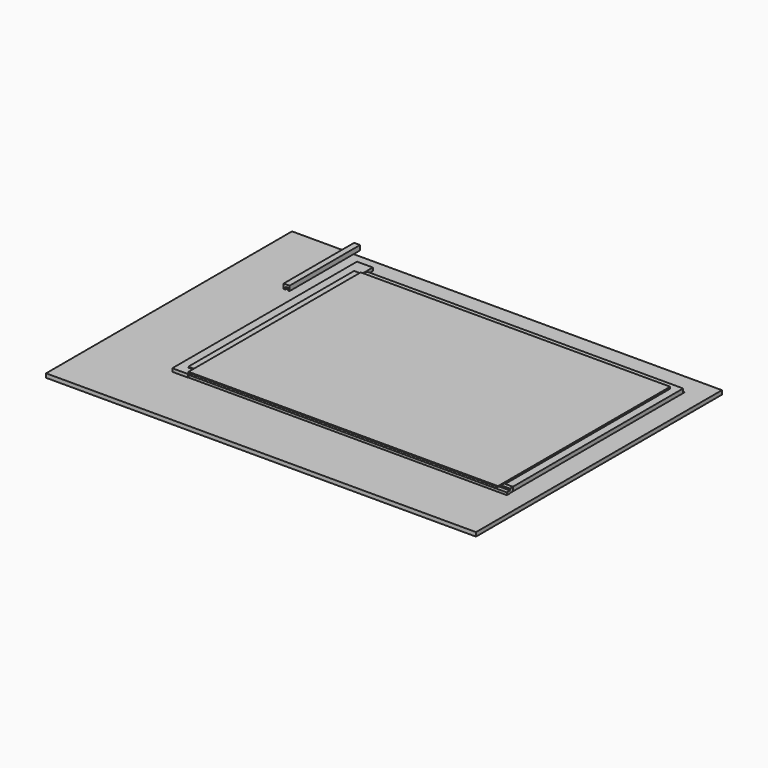
from build123d import *

# Parameters (mm, degrees)
F0_W      = 395.9047932061
F0_H      = 259.6
F1_DEPTH  = 1.1
F2_W      = 387.6
F2_H      = 269.6
F3_DEPTH  = 1.1
F5_W      = 538.467913866
F5_H      = 385.010138154
F5_W_2    = 398.5009938478
F5_H_2    = 269.0812945366
F6_DEPTH  = 5
F5_W_3    = 388.2591426373
F5_H_3    = 260.2360546589
F7_DEPTH  = 3
F9_DEPTH  = 4
F10_W     = 398.476421833
F10_H     = 4.9810558558
F11_DEPTH = 3
F12_W     = 395.9012627602
F12_H     = 266.7091116309
F13_DEPTH = 6
F14_W     = 396.6173790395
F14_H     = 4.8736184835
F15_DEPTH = 5
F17_W     = 2.2251938702
F17_H     = 110.2578239515
F18_DEPTH = 3
F19_W     = 5.1836705661
F19_H     = 110.2578239515
F19_W_2   = 2.2251938702
F20_DEPTH = 3


with BuildPart() as f1:
    # F0 (on Top) → F1 (new body)
    with BuildSketch(Plane.XY):
        with Locations((7.6845915152, -25.1384339285)):
            Rectangle(F0_W, F0_H)
    extrude(amount=F1_DEPTH)


with BuildPart() as f3:
    # F2 (on face) → F3 (new body)
    with BuildSketch(Plane.XY.offset(1.1)):
        with Locations((11.8369881183, -30.1384339285)):
            Rectangle(F2_W, F2_H)
    extrude(amount=F3_DEPTH)


with BuildPart() as f6:
    # F5 (on offset) → F6 (new body)
    with BuildSketch(Plane(origin=(0, 0, -9), x_dir=(1, 0, 0), z_dir=(0, 0, -1))):
        with Locations((-26.9538611174, 52.670635283)):
            Rectangle(F5_W, F5_H)
        with Locations((17.3784866929, 20.3713178635)):
            Rectangle(F5_W_2, F5_H_2, mode=Mode.SUBTRACT)
    extrude(amount=-F6_DEPTH)

    # F5 (on offset) → F7 (join)
    with BuildSketch(Plane(origin=(0, 0, -9), x_dir=(1, 0, 0), z_dir=(0, 0, -1))):
        with Locations((17.3784866929, 20.3713178635)):
            Rectangle(F5_W_2, F5_H_2)
        with Locations((17.3784792423, 20.1385468245)):
            Rectangle(F5_W_3, F5_H_3, mode=Mode.SUBTRACT)
    extrude(amount=-F7_DEPTH)


with BuildPart() as f9:
    # F8 (on face) → F9 (new body)
    with BuildSketch(Plane.XY.offset(-4)):
        Polygon((-201.7163038254, -165.6083017588), (-181.872010231, -165.6083017588), (-181.872010231, -154.9119651318), (-181.872010231, 114.1693294048), (-181.872010231, 123.4622597694), (-201.7163038254, 123.4622597694), align=None)
    extrude(amount=F9_DEPTH)


with BuildPart() as f11:
    # F10 (on face) → F11 (new body)
    with BuildSketch(Plane.XY.offset(-4)):
        with Locations((17.6865756512, -162.7328619361)):
            Rectangle(F10_W, F10_H)
    extrude(amount=F11_DEPTH)


with BuildPart() as f13:
    # F12 (on face) → F13 (new body)
    with BuildSketch(Plane.XY.offset(-6)):
        with Locations((17.2403156757, -20.3822143376)):
            Rectangle(F12_W, F12_H)
    extrude(amount=F13_DEPTH)


with BuildPart() as f15:
    # F14 (on face) → F15 (new body)
    with BuildSketch(Plane.XY.offset(-4)):
        with Locations((18.2966273278, -157.5099304318)):
            Rectangle(F14_W, F14_H)
    extrude(amount=F15_DEPTH)


with BuildPart() as f18:
    # F17 (on offset) → F18 (new body)
    with BuildSketch(Plane.XY.offset(26.1)):
        with Locations((-183.9597469651, 49.5766887216)):
            Rectangle(F17_W, F17_H)
    extrude(amount=F18_DEPTH)



with BuildPart() as f18b:
    # F17 (on offset) → F18, piece 2 (new body)
    with BuildSketch(Plane.XY.offset(26.1)):
        with Locations((-189.1434175312, 49.5766887216)):
            Rectangle(F17_W, F17_H)
    extrude(amount=F18_DEPTH)


with BuildPart() as f18_1:
    add(f18.part)

    add(f18b.part)  # F20 merges F18b
    # F19 (on face) → F20 (join)
    with BuildSketch(Plane.XY.offset(29.1)):
        with Locations((-187.6641791833, 49.5766887216)):
            Rectangle(F19_W, F19_H)
        with Locations((-183.9597469651, 49.5766887216)):
            Rectangle(F19_W_2, F19_H)
    extrude(amount=F20_DEPTH)


solid = Compound([f1.part, f3.part, f6.part, f9.part, f11.part, f13.part, f15.part, f18_1.part])
